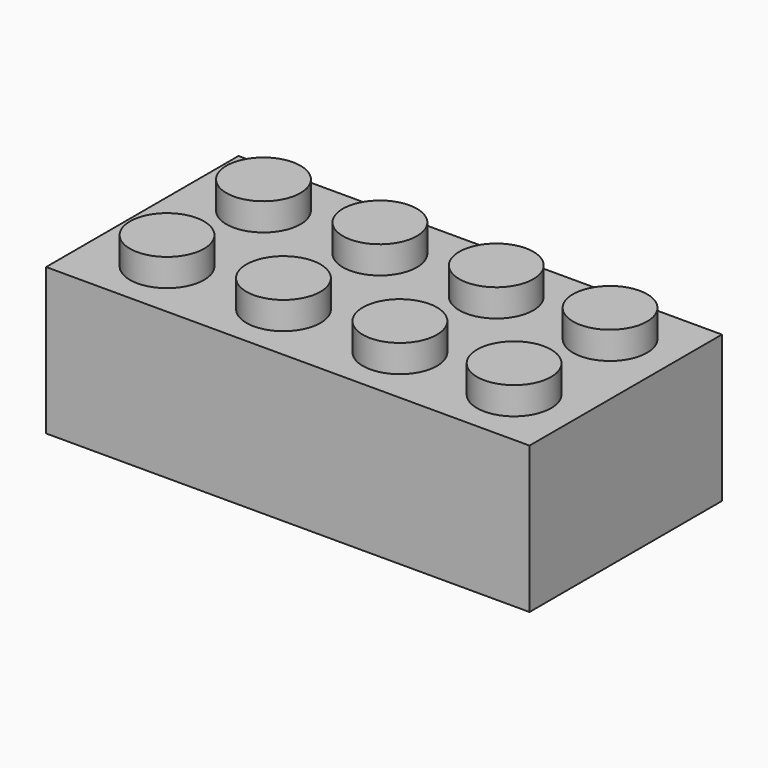
from build123d import *

# Parameters (mm, degrees)
F0_W     = 31.64
F0_H     = 15.74
F1_DEPTH = 9.59
F2_R     = 2.425
F3_DEPTH = 1.8
F5_DEPTH = 8


with BuildPart() as f1:
    # F0 (on Top) → F1 (new body)
    with BuildSketch(Plane.XY):
        with Locations((15.82, 7.87)):
            Rectangle(F0_W, F0_H)
    extrude(amount=F1_DEPTH)

    # F2 (on face) → F3 (join)
    with BuildSketch(Plane.XY.offset(9.59)):
        with Locations((4.7746349379, 11.815)):
            Circle(F2_R)
        with Locations((12.3955499551, 11.815)):
            Circle(F2_R)
        with Locations((20.0164649723, 11.815)):
            Circle(F2_R)
        with Locations((27.4894218309, 11.7763556091)):
            Circle(F2_R)
        with Locations((4.7746349379, 3.925)):
            Circle(F2_R)
        with Locations((12.3955499551, 3.925)):
            Circle(F2_R)
        with Locations((20.0164649723, 3.925)):
            Circle(F2_R)
        with Locations((27.4894218309, 3.925)):
            Circle(F2_R)
    extrude(amount=F3_DEPTH)

    # F4 (on face) → F5 (cut)
    with BuildSketch(Plane(origin=(0, 0, 0), x_dir=(1, 0, 0), z_dir=(0, 0, -1))):
        with BuildLine():
            ThreePointArc((19.07, -7.87), (18.1189275762, -10.1672662012), (15.8223495388, -11.1199991507))
            Line((15.8223495388, -11.1199991507), (15.8223495388, -14.52))
            Line((15.8223495388, -14.52), (30.4358961851, -14.52))
            Line((30.4358961851, -14.52), (30.4199965129, -7.87))
            Line((30.4199965129, -7.87), (27.31, -7.87))
            ThreePointArc((27.31, -7.87), (24.06, -11.12), (20.81, -7.87))
            Line((20.81, -7.87), (19.07, -7.87))
        make_face()
        with BuildLine():
            Line((15.817648704, -1.22), (15.817648704, -4.6200008506))
            ThreePointArc((15.817648704, -4.6200008506), (18.1172655798, -5.5710718028), (19.07, -7.87))
            Line((19.07, -7.87), (20.81, -7.87))
            ThreePointArc((20.81, -7.87), (24.06, -4.62), (27.31, -7.87))
            Line((27.31, -7.87), (30.4199965129, -7.87))
            Line((30.4199965129, -7.87), (30.4040968407, -1.22))
            Line((30.4040968407, -1.22), (15.817648704, -1.22))
        make_face()
        with BuildLine():
            ThreePointArc((4.33, -7.87), (7.58, -4.62), (10.83, -7.87))
            Line((10.83, -7.87), (12.57, -7.87))
            ThreePointArc((12.57, -7.87), (13.5210718028, -5.5727344202), (15.817648704, -4.6200008506))
            Line((15.817648704, -4.6200008506), (15.817648704, -1.22))
            Line((15.817648704, -1.22), (1.2312005673, -1.22))
            Line((1.2312005673, -1.22), (1.2200017299, -7.87))
            Line((1.2200017299, -7.87), (4.33, -7.87))
        make_face()
        with BuildLine():
            Line((12.57, -7.87), (10.83, -7.87))
            ThreePointArc((10.83, -7.87), (7.58, -11.12), (4.33, -7.87))
            Line((4.33, -7.87), (1.2200017299, -7.87))
            Line((1.2200017299, -7.87), (1.2088028926, -14.52))
            Line((1.2088028926, -14.52), (15.8223495388, -14.52))
            Line((15.8223495388, -14.52), (15.8223495388, -11.1199991507))
            ThreePointArc((15.8223495388, -11.1199991507), (13.5227337988, -10.1689275762), (12.57, -7.87))
        make_face()
        with BuildLine():
            Line((5.18, -7.87), (9.98, -7.87))
            ThreePointArc((9.98, -7.87), (7.58, -5.47), (5.18, -7.87))
        make_face()
        with BuildLine():
            ThreePointArc((5.18, -7.87), (7.58, -10.27), (9.98, -7.87))
            Line((9.98, -7.87), (5.18, -7.87))
        make_face()
        with BuildLine():
            Line((18.22, -7.87), (13.42, -7.87))
            ThreePointArc((13.42, -7.87), (15.82, -10.27), (18.22, -7.87))
        make_face()
        with BuildLine():
            ThreePointArc((18.22, -7.87), (15.82, -5.47), (13.42, -7.87))
            Line((13.42, -7.87), (18.22, -7.87))
        make_face()
        with BuildLine():
            ThreePointArc((26.46, -7.87), (24.06, -5.47), (21.66, -7.87))
            Line((21.66, -7.87), (26.46, -7.87))
        make_face()
        with BuildLine():
            Line((26.46, -7.87), (21.66, -7.87))
            ThreePointArc((21.66, -7.87), (24.06, -10.27), (26.46, -7.87))
        make_face()
    extrude(amount=-F5_DEPTH, mode=Mode.SUBTRACT)


solid = f1.part
